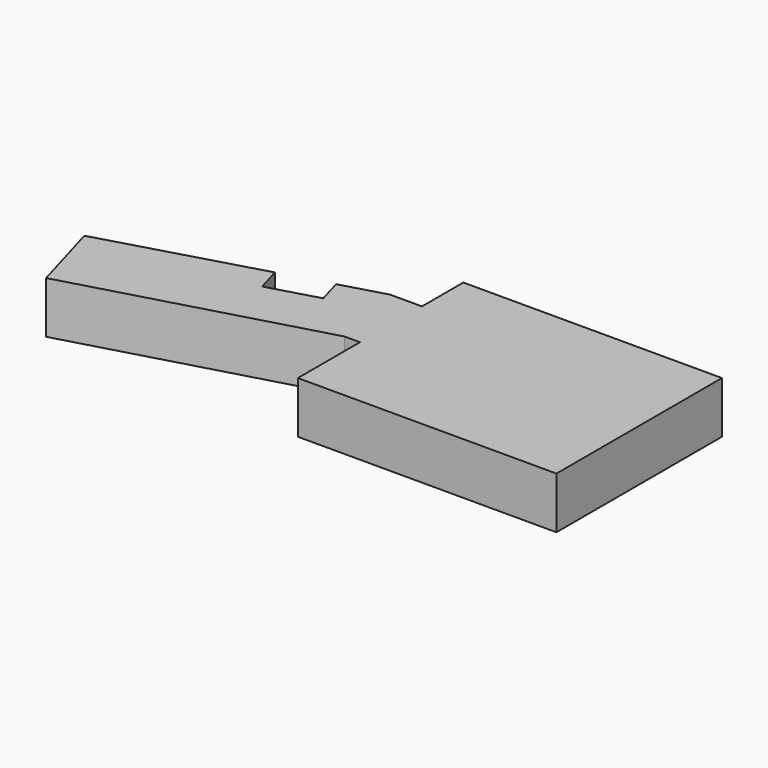
from build123d import *

# Parameters (mm, degrees)
F1_DEPTH = 30


with BuildPart() as f1:
    # F0 (on Top) → F1 (new body)
    with BuildSketch(Plane.XY):
        Polygon((75, -60), (75, 60), (-75, 60), (-75, 30), (26.413014, 30), (26.413014, -15), (-75, -15), (-75, -60), align=None)
        Polygon((26.413014, 30), (-75, 30), (-93.586986, 30), (-119.013755, 22.697953), (-114.873411, 8.280687), (-143.707943, 0), (-147.848286, 14.417266), (-237.759645, -11.403435), (-225.338615, -54.655232), (-84.043801, -15), (-75, -15), (26.413014, -15), align=None)
    extrude(amount=F1_DEPTH)


solid = f1.part
